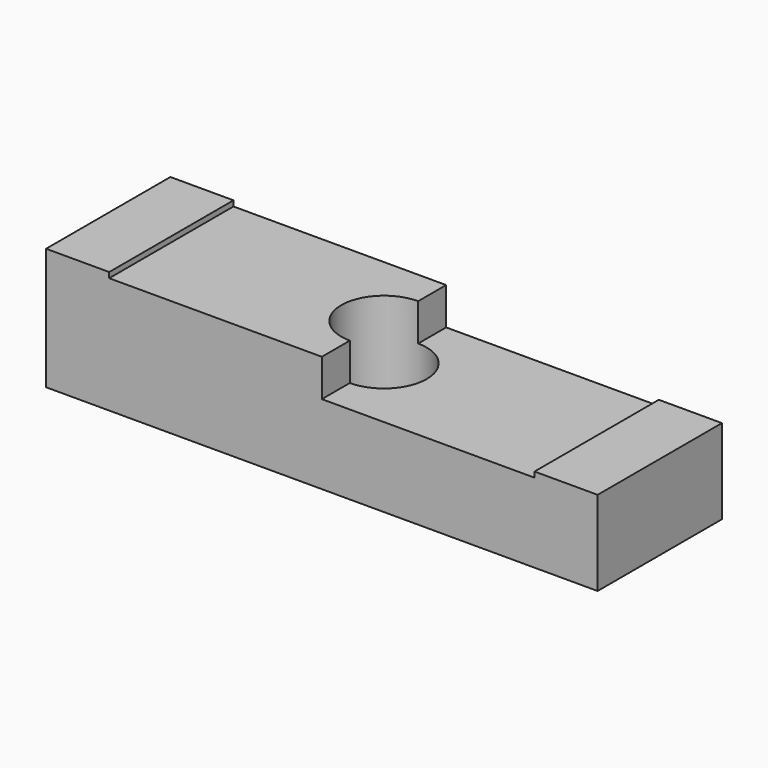
from build123d import *

# Parameters (mm, degrees)
F1_DEPTH = 25.4
F2_R     = 6.985
F3_DEPTH = 25.4


with BuildPart() as f1:
    # F0 (on Front) → F1 (new body)
    with BuildSketch(Plane.XZ):
        Polygon((-34.763229, 12.741052), (-45.081979, 12.741052), (-45.081979, -7.197948), (45.088021, -7.197948), (45.088021, 5.756052), (45.088021, 6.645052), (34.769271, 6.645052), (34.769271, 5.756052), (0.003021, 5.756052), (0.003021, 11.852052), (-34.763229, 11.852052), align=None)
    extrude(amount=F1_DEPTH)

    # F2 (on face) → F3 (cut)
    with BuildSketch(Plane.XY.offset(11.852052)):
        with Locations((0.003021, -12.7)):
            Circle(F2_R)
    extrude(amount=-F3_DEPTH, mode=Mode.SUBTRACT)


solid = f1.part
